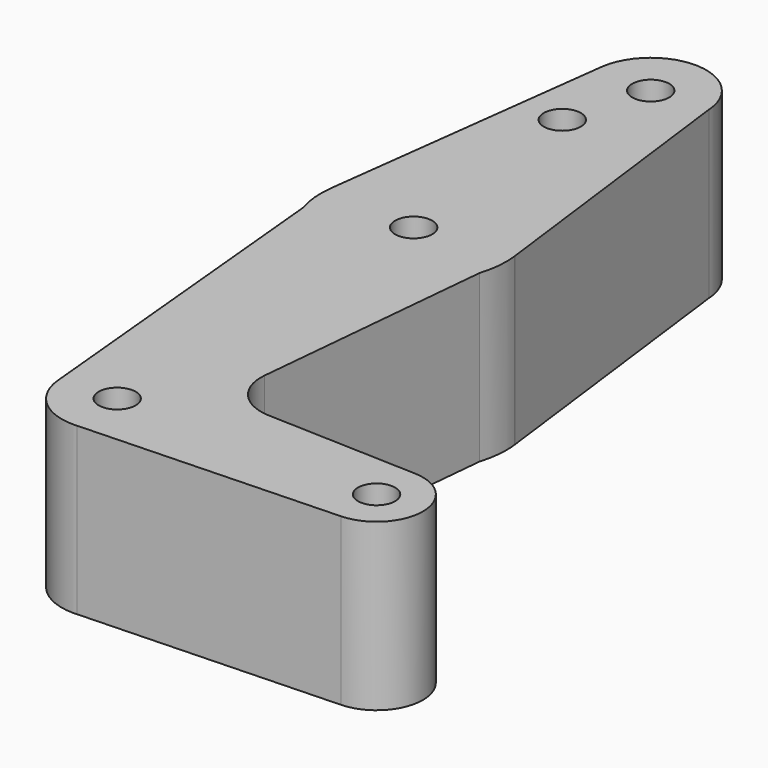
from build123d import *

# Parameters (mm, degrees)
F0_R     = 3.175
F1_DEPTH = 3.048
F2_DEPTH = 25.4


with BuildPart() as f1:
    # F0 (on Top) → F1 (new body)
    with BuildSketch(Plane.XY):
        with BuildLine():
            Line((9.5045213227, 49.566365397), (9.3611481588, 50.7012339615))
            ThreePointArc((9.3611481588, 50.7012339615), (-0.1400603656, 58.4660764801), (-9.4088285736, 50.4252009888))
            Line((-9.4088285736, 50.4252009888), (-9.4825060338, 49.840830011))
            ThreePointArc((-9.4825060338, 49.840830011), (-0.4498638837, 39.4277357171), (9.525, 48.9421062946))
            ThreePointArc((9.525, 48.9421062946), (9.519878954, 49.2544037502), (9.5045213227, 49.566365397))
        make_face()
        with Locations((0, 48.9421062946)):
            Circle(F0_R, mode=Mode.SUBTRACT)
        with BuildLine():
            ThreePointArc((9.5045213227, 49.566365397), (9.4498863967, 50.1359538934), (9.3611481588, 50.7012339615))
            Line((9.3611481588, 50.7012339615), (9.5045213227, 49.566365397))
        make_face()
        with BuildLine():
            Line((-9.4825060338, 49.840830011), (-9.4088285736, 50.4252009888))
            ThreePointArc((-9.4088285736, 50.4252009888), (-9.4501853512, 50.1335851351), (-9.4825060338, 49.840830011))
        make_face()
        with BuildLine():
            Line((15.7498106857, 0.1318520983), (9.5045213227, 49.566365397))
            ThreePointArc((9.5045213227, 49.566365397), (9.519878954, 49.2544037502), (9.525, 48.9421062946))
            ThreePointArc((9.525, 48.9421062946), (-0.4498638837, 39.4277357171), (-9.4825060338, 49.840830011))
            Line((-9.4825060338, 49.840830011), (-15.7503089228, 0.1279043299))
            ThreePointArc((-15.7503089228, 0.1279043299), (-0.0019895424, 14.01710617), (15.7498106857, 0.1318520983))
        make_face()
        with Locations((-3.9544538595, 34.9365547299)):
            Circle(F0_R, mode=Mode.SUBTRACT)
        with BuildLine():
            Line((15.7664681676, 0), (15.7498106857, 0.1318520983))
            ThreePointArc((15.7498106857, 0.1318520983), (15.7581579571, 0.0646262032), (15.7662182853, -0.0026346995))
            Line((15.7662182853, -0.0026346995), (15.7664681676, 0))
        make_face()
        with BuildLine():
            ThreePointArc((15.7662182853, -0.0026346995), (15.7581579571, 0.0646262032), (15.7498106857, 0.1318520983))
            ThreePointArc((15.7498106857, 0.1318520983), (-0.0019895424, 14.01710617), (-15.7503089228, 0.1279043299))
            ThreePointArc((-15.7503089228, 0.1279043299), (-15.7583892955, 0.0627290611), (-15.7661999721, -0.002479078))
            Line((-15.7661999721, -0.002479078), (-15.1362867475, -6.6441708073))
            ThreePointArc((-15.1362867475, -6.6441708073), (7.04938e-05, -17.7328937052), (15.1363292544, -6.64403638))
            Line((15.1363292544, -6.64403638), (15.7662182853, -0.0026346995))
        make_face()
        with Locations((0, -1.8578937054)):
            Circle(F0_R, mode=Mode.SUBTRACT)
        with BuildLine():
            ThreePointArc((-15.7661999721, -0.002479078), (-15.7583892955, 0.0627290611), (-15.7503089228, 0.1279043299))
            Line((-15.7503089228, 0.1279043299), (-15.7664350935, 0))
            Line((-15.7664350935, 0), (-15.7661999721, -0.002479078))
        make_face()
        with BuildLine():
            ThreePointArc((15.875, -1.8578937054), (15.8477812371, -0.9286709871), (15.7662182853, -0.0026346995))
            Line((15.7662182853, -0.0026346995), (15.1363292544, -6.64403638))
            ThreePointArc((15.1363292544, -6.64403638), (15.6892455509, -4.2792980589), (15.875, -1.8578937054))
        make_face()
        with BuildLine():
            Line((-15.1362867475, -6.6441708073), (-15.7661999721, -0.002479078))
            ThreePointArc((-15.7661999721, -0.002479078), (-15.8040798094, -3.356788758), (-15.1362867475, -6.6441708073))
        make_face()
        with BuildLine():
            Line((11.2321620564, -47.8086563632), (15.1363292544, -6.64403638))
            ThreePointArc((15.1363292544, -6.64403638), (7.04938e-05, -17.7328937052), (-15.1362867475, -6.6441708073))
            Line((-15.1362867475, -6.6441708073), (-9.4824478856, -66.257230737))
            ThreePointArc((-9.4824478856, -66.257230737), (-0.4501715725, -55.8435376812), (9.525, -65.3578937054))
            ThreePointArc((9.525, -65.3578937054), (6.9705567315, -71.8491927936), (0.6773435479, -74.8587794913))
            Line((0.6773435479, -74.8587794913), (44.7324052746, -73.2903683199))
            ThreePointArc((44.7324052746, -73.2903683199), (36.5125, -65.3578937054), (44.7324052746, -57.4254190908))
            Line((44.7324052746, -57.4254190908), (18.8639877306, -56.5044734952))
            ThreePointArc((18.8639877306, -56.5044734952), (13.1715436826, -53.8034899802), (11.2321620564, -47.8086563632))
        make_face()
        with BuildLine():
            ThreePointArc((9.525, -65.3578937054), (-0.4501715725, -55.8435376812), (-9.4824478856, -66.257230737))
            ThreePointArc((-9.4824478856, -66.257230737), (-6.4093462917, -72.4038787403), (0, -74.8828937054))
            Line((0, -74.8828937054), (0.6773435479, -74.8587794913))
            ThreePointArc((0.6773435479, -74.8587794913), (6.9705567315, -71.8491927936), (9.525, -65.3578937054))
        make_face()
        with Locations((0, -65.3578937054)):
            Circle(F0_R, mode=Mode.SUBTRACT)
        with BuildLine():
            Line((0.6773435479, -74.8587794913), (0, -74.8828937054))
            ThreePointArc((0, -74.8828937054), (0.3388863295, -74.8768632429), (0.6773435479, -74.8587794913))
        make_face()
        with BuildLine():
            ThreePointArc((52.3875, -65.3578937054), (50.1616327839, -59.8459832206), (44.7324052746, -57.4254190908))
            ThreePointArc((44.7324052746, -57.4254190908), (36.5125, -65.3578937054), (44.7324052746, -73.2903683199))
            ThreePointArc((44.7324052746, -73.2903683199), (50.1616327839, -70.8698041901), (52.3875, -65.3578937054))
        make_face()
        with Locations((44.45, -65.3578937054)):
            Circle(F0_R, mode=Mode.SUBTRACT)
    extrude(amount=F1_DEPTH)

    # F2 (add): a face of the model
    f2_faces = [f1.faces().sort_by_distance(p)[0] for p in [
        (5.2288059098, -18.6652574554, 3.048),
    ]]
    extrude(f2_faces, amount=F2_DEPTH)


solid = f1.part
